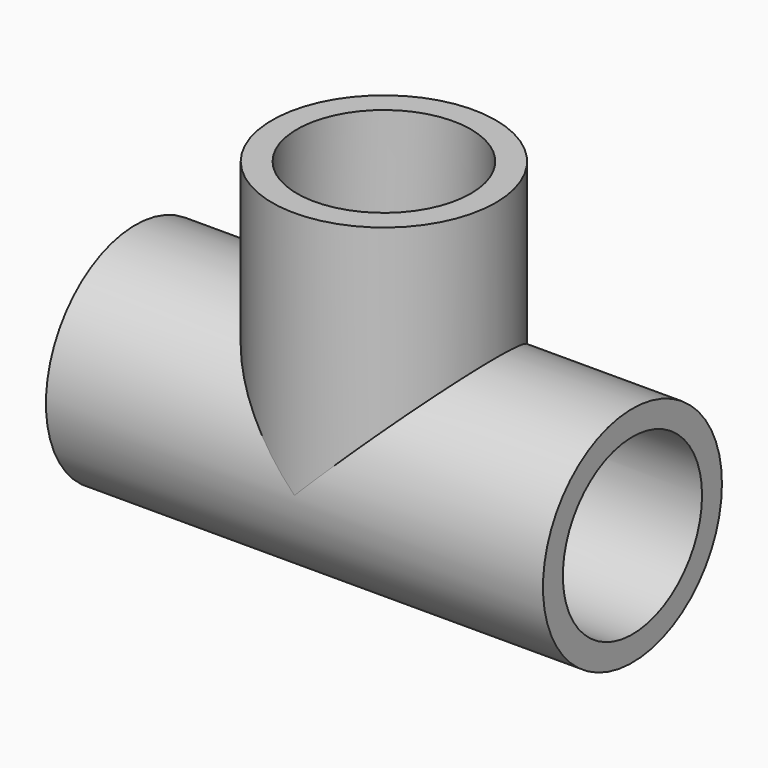
from build123d import *

# Parameters (mm, degrees)
F0_R     = 14.2875
F0_R_2   = 11.1125
F1_DEPTH = 31.75
F0_R_3   = 10.31875
F2_DEPTH = 14.2875
F3_R     = 14.2875
F3_R_2   = 11.1125
F4_DEPTH = 31.75
F3_R_3   = 10.31875
F5_DEPTH = 14.2875
F6_DEPTH = 14.2875
F7_DEPTH = 14.2875


with BuildPart() as f1:
    # F0 (on Top) → F1 (new body)
    with BuildSketch(Plane.XY):
        Circle(F0_R)
        Circle(F0_R_2, mode=Mode.SUBTRACT)
    extrude(amount=F1_DEPTH)

    # F0 (on Top) → F2 (join)
    with BuildSketch(Plane.XY):
        Circle(F0_R_2)
        Circle(F0_R_3, mode=Mode.SUBTRACT)
    extrude(amount=F2_DEPTH)

    # F3 (on Right) → F4 (join, symmetric)
    with BuildSketch(Plane.YZ):
        Circle(F3_R)
        Circle(F3_R_2, mode=Mode.SUBTRACT)
    extrude(amount=F4_DEPTH, both=True)

    # F3 (on Right) → F5 (join, symmetric)
    with BuildSketch(Plane.YZ):
        Circle(F3_R_2)
        Circle(F3_R_3, mode=Mode.SUBTRACT)
    extrude(amount=F5_DEPTH, both=True)

    # F3 (on Right) → F6 (cut, symmetric)
    with BuildSketch(Plane.YZ):
        Circle(F3_R_3)
    extrude(amount=F6_DEPTH, both=True, mode=Mode.SUBTRACT)

    # F0 (on Top) → F7 (cut)
    with BuildSketch(Plane.XY):
        Circle(F0_R_3)
    extrude(amount=F7_DEPTH, mode=Mode.SUBTRACT)


solid = f1.part
